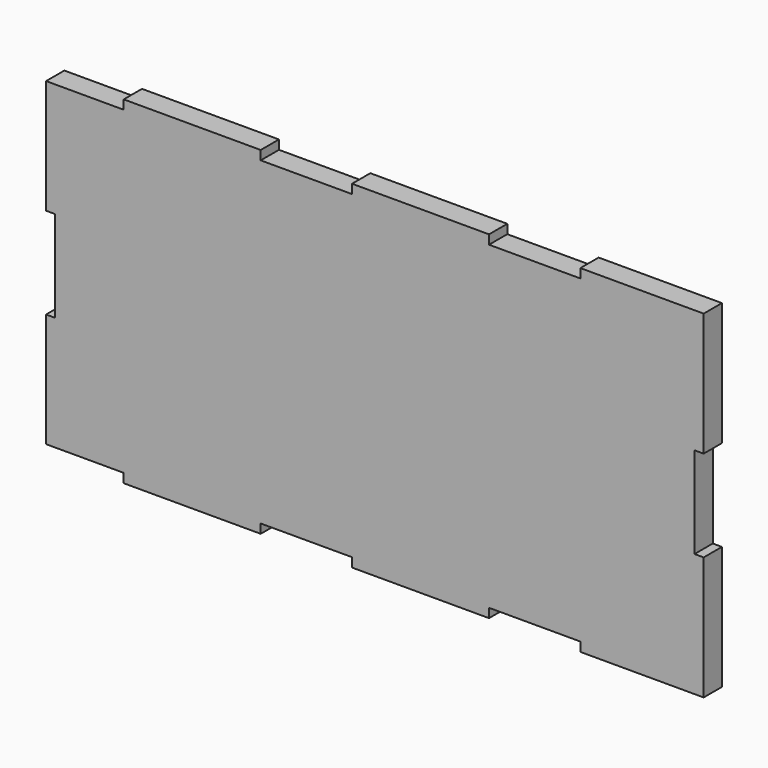
from build123d import *

# Parameters (mm, degrees)
F1_DEPTH = 5


with BuildPart() as f1:
    # F0 (on Front) → F1 (new body)
    with BuildSketch(Plane.XZ):
        Polygon((0, 25), (0, 0), (17, 0), (17, -2), (47, -2), (47, 0), (67, 0), (67, -2), (97, -2), (97, 0), (117, 0), (117, -2), (144, -2), (144, 25), (142, 25), (142, 45), (144, 45), (144, 72), (117, 72), (117, 70), (97, 70), (97, 72), (67, 72), (67, 70), (47, 70), (47, 72), (17, 72), (17, 70), (0, 70), (0, 45), (2, 45), (2, 25), align=None)
    extrude(amount=F1_DEPTH)


solid = f1.part
